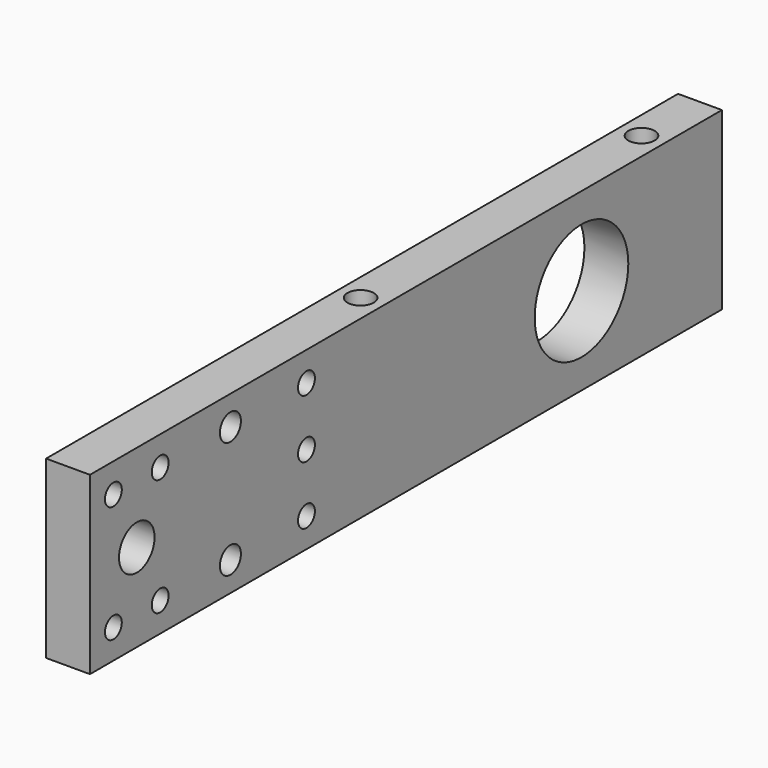
from build123d import *

# Parameters (mm, degrees)
SKETCH_W        = 171.45
SKETCH_H        = 38.1
SKETCH_R        = 4.826
SKETCH_R_2      = 2.286
SKETCH_R_3      = 12.7
SKETCH_R_4      = 2.8575
PAD_DEPTH       = 9.525
SKETCH001_R     = 2.8575
POCKET_DEPTH    = 6.096
SKETCH086_R     = 2.8575
POCKET014_DEPTH = 6.096
SKETCH087_R     = 2.8575
POCKET015_DEPTH = 6.096
SKETCH094_R     = 3.683
POCKET022_DEPTH = 4.318


with BuildPart() as left_wall:
    # Sketch → Pad (new body)
    with BuildSketch(Plane.YZ):
        Rectangle(SKETCH_W, SKETCH_H)
        with Locations((-73.025, 0)):
            Circle(SKETCH_R, mode=Mode.SUBTRACT)
        with Locations((-26.9875, 12.7)):
            Circle(SKETCH_R_2, mode=Mode.SUBTRACT)
        with Locations((-26.9875, -12.7)):
            Circle(SKETCH_R_2, mode=Mode.SUBTRACT)
        with Locations((47.625, 0)):
            Circle(SKETCH_R_3, mode=Mode.SUBTRACT)
        with Locations((-79.375, -12.7)):
            Circle(SKETCH_R_2, mode=Mode.SUBTRACT)
        with Locations((-66.675, -12.7)):
            Circle(SKETCH_R_2, mode=Mode.SUBTRACT)
        with Locations((-47.625, 12.7)):
            Circle(SKETCH_R_4, mode=Mode.SUBTRACT)
        with Locations((-47.625, -12.7)):
            Circle(SKETCH_R_4, mode=Mode.SUBTRACT)
        with Locations((-26.9875, 0)):
            Circle(SKETCH_R_2, mode=Mode.SUBTRACT)
        with Locations((-79.375, 12.7)):
            Circle(SKETCH_R_2, mode=Mode.SUBTRACT)
        with Locations((-66.675, 12.7)):
            Circle(SKETCH_R_2, mode=Mode.SUBTRACT)
    extrude(amount=PAD_DEPTH)

    # Sketch001 (on Face3 of Pad) → Pocket (cut)
    with BuildSketch(Plane.ZX.offset(85.725)):
        with Locations((12.7, 4.74788)):
            Circle(SKETCH001_R)
        with Locations((-12.7, 4.74788)):
            Circle(SKETCH001_R)
    extrude(amount=-POCKET_DEPTH, mode=Mode.SUBTRACT)

    # Sketch086 (on Face2 of Pocket) → Pocket014 (cut)
    with BuildSketch(Plane(origin=(0, 0, 19.05), x_dir=(0, -1, 0), z_dir=(0, 0, 1))):
        with Locations((-69.85, 4.7625)):
            Circle(SKETCH086_R)
        with Locations((6.35, 4.7625)):
            Circle(SKETCH086_R)
    extrude(amount=-POCKET014_DEPTH, mode=Mode.SUBTRACT)

    # Sketch087 (on Face3 of Pocket) → Pocket015 (cut)
    with BuildSketch(Plane.YX.offset(19.05)):
        with Locations((-6.35, 4.7625)):
            Circle(SKETCH087_R)
        with Locations((69.85, 4.7625)):
            Circle(SKETCH087_R)
    extrude(amount=-POCKET015_DEPTH, mode=Mode.SUBTRACT)

    # Sketch094 (on Face5 of Pocket015) → Pocket022 (cut)
    with BuildSketch(Plane.YZ.offset(9.525)):
        with Locations((-27.051, 12.7)):
            Circle(SKETCH094_R)
        with Locations((-27.051, -12.7)):
            Circle(SKETCH094_R)
        with Locations((-27.051, 0)):
            Circle(SKETCH094_R)
    extrude(amount=-POCKET022_DEPTH, mode=Mode.SUBTRACT)


with BuildPart() as left_wall_1:
    # Body placement: moved
    add(left_wall.part.moved(Location((0, 3.556, 0))))


with BuildPart() as right_wall:
    # Part__Mirroring: instance of left-wall
    add(left_wall_1.part.mirror(Plane(origin=(0, 0, 0), x_dir=(0, -1, 0), z_dir=(1, 0, 0))))


with BuildPart() as right_wall_1:
    # Part__Mirroring placement: moved
    add(right_wall.part.moved(Location((-134.112, 0, 0))))


solid = right_wall_1.part
